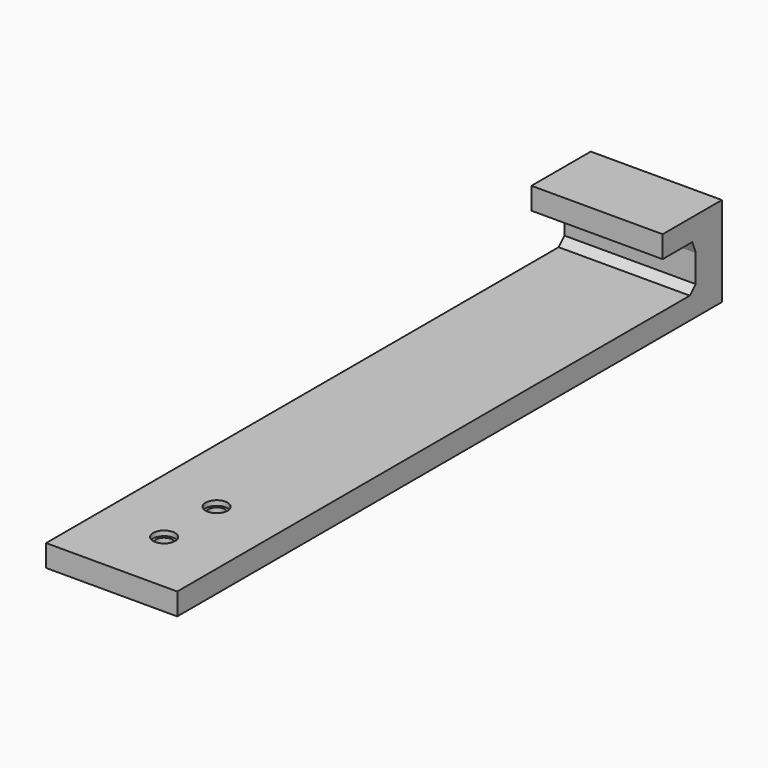
from build123d import *

# Parameters (mm, degrees)
F1_DEPTH = 25.4
F2_DEPTH = 112.776
F3_R     = 1.5875
F4_DEPTH = 25.4
F5_R     = 2.12725
F5_R_2   = 1.5875
F6_DEPTH = 0.9525


with BuildPart() as f1:
    # F0 (on Right) → F1 (new body)
    with BuildSketch(Plane.YZ):
        Polygon((0, 4.2545), (0, 0), (12.7, 0), (19.05, 0), (19.05, 4.2545), (19.05, 17.399), (12.7, 17.399), (4.699, 17.399), (4.699, 13.1445), (11.8730319638, 13.1445), (12.7, 11.0233025625), (12.7, 5.6484807283), (11.281458661, 4.2545), align=None)
    extrude(amount=F1_DEPTH)

    # F2 (add): a face of the model
    f2_faces = [f1.faces().sort_by_distance(p)[0] for p in [
        (12.7, 0, 2.12725),
    ]]
    extrude(f2_faces, amount=F2_DEPTH)

    # F3 (on face) → F4 (cut)
    with BuildSketch(Plane(origin=(0, 0, 0), x_dir=(1, 0, 0), z_dir=(0, 0, -1))):
        with Locations((12.7, 100.076)):
            Circle(F3_R)
        with Locations((12.7, 87.376)):
            Circle(F3_R)
    extrude(amount=-F4_DEPTH, mode=Mode.SUBTRACT)

    # F5 (on face) → F6 (cut)
    with BuildSketch(Plane.XY.offset(4.2545)):
        with Locations((12.7, -87.376)):
            Circle(F5_R)
        with Locations((12.7, -87.376)):
            Circle(F5_R_2, mode=Mode.SUBTRACT)
        with Locations((12.7, -100.076)):
            Circle(F5_R)
        with Locations((12.7, -100.076)):
            Circle(F5_R_2, mode=Mode.SUBTRACT)
    extrude(amount=-F6_DEPTH, mode=Mode.SUBTRACT)


solid = f1.part
